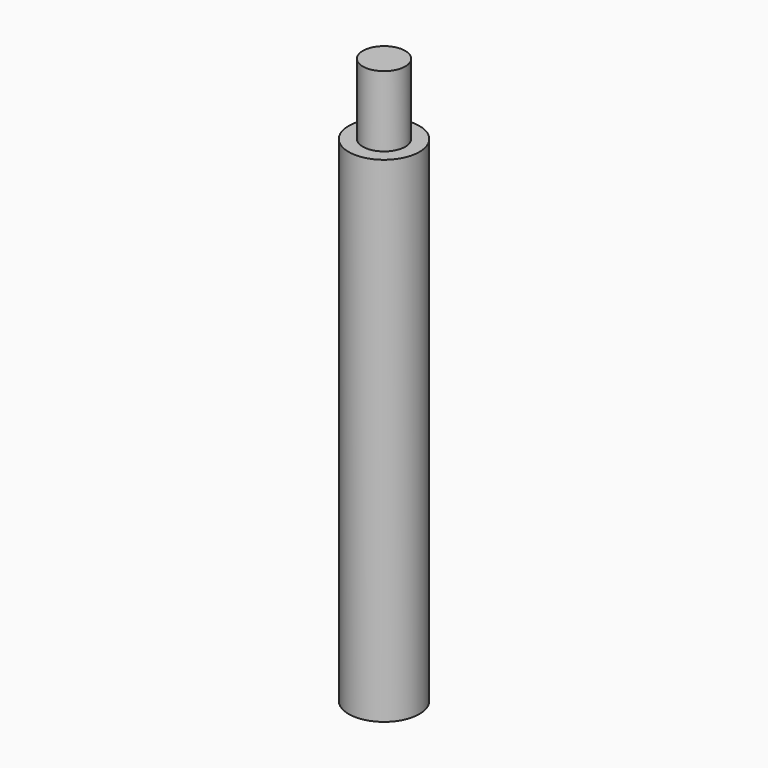
from build123d import *

# Parameters (mm, degrees)
CYLINDER_R        = 5
CYLINDER_DEPTH    = 70
CYLINDER001_R     = 3
CYLINDER001_DEPTH = 10


with BuildPart() as cylinder:
    # Cylinder → Cylinder (new body)
    with BuildSketch(Plane.XY):
        Circle(CYLINDER_R)
    extrude(amount=CYLINDER_DEPTH)


with BuildPart() as cylinder001:
    # Cylinder001 → Cylinder001 (new body)
    with BuildSketch(Plane.XY.offset(70)):
        Circle(CYLINDER001_R)
    extrude(amount=CYLINDER001_DEPTH)


solid = Compound([cylinder.part, cylinder001.part])
